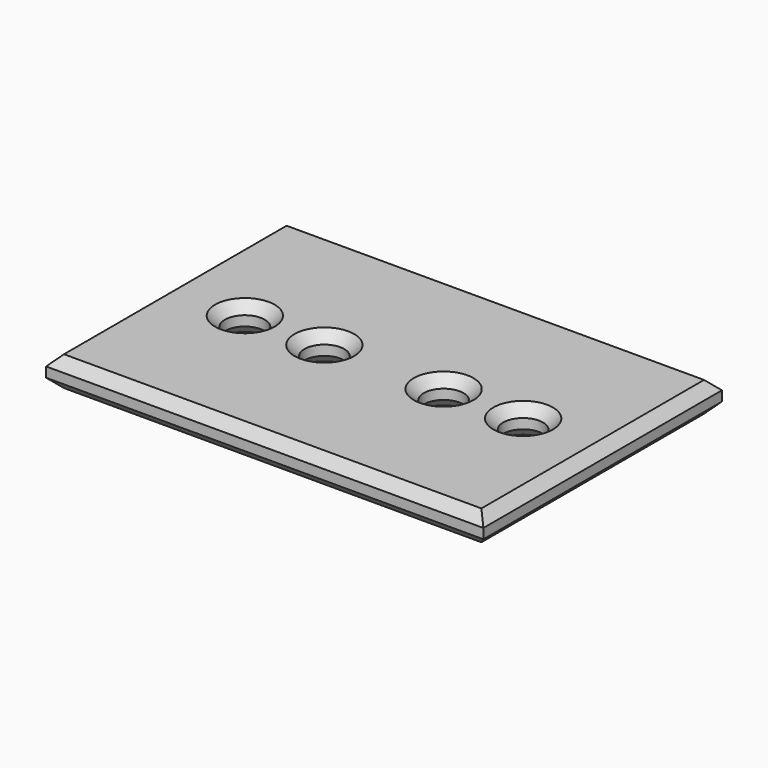
from build123d import *

# Parameters (mm, degrees)
F0_W     = 22
F0_H     = 15
F1_DEPTH = 1.5
F2_R     = 1
F3_DEPTH = 1.501
F4_SIZE  = 0.5


with BuildPart() as f1:
    # F0 (on Top) → F1 (new body)
    with BuildSketch(Plane.XY):
        with Locations((11, 7.5)):
            Rectangle(F0_W, F0_H)
    extrude(amount=F1_DEPTH)

    # F2 (on face) → F3 (cut, through all)
    with BuildSketch(Plane.XY.offset(1.5)):
        with Locations((4, 7.5)):
            Circle(F2_R)
        with Locations((8, 7.5)):
            Circle(F2_R)
        with Locations((14, 7.5)):
            Circle(F2_R)
        with Locations((18, 7.5)):
            Circle(F2_R)
    extrude(amount=-F3_DEPTH, mode=Mode.SUBTRACT)

    # F4
    f4_edges = [f1.edges().sort_by_distance(p)[0] for p in [
        (0, 7.5, 1.5),
        (11, 15, 1.5),
        (11, 0, 1.5),
        (22, 7.5, 1.5),
        (3, 7.5, 1.5),
        (7, 7.5, 1.5),
        (13, 7.5, 1.5),
        (17, 7.5, 1.5),
        (0, 7.5, 0),
        (11, 15, 0),
        (11, 0, 0),
        (22, 7.5, 0),
        (3, 7.5, 0),
        (7, 7.5, 0),
        (13, 7.5, 0),
        (17, 7.5, 0),
    ]]
    chamfer(f4_edges, length=F4_SIZE)


solid = f1.part
